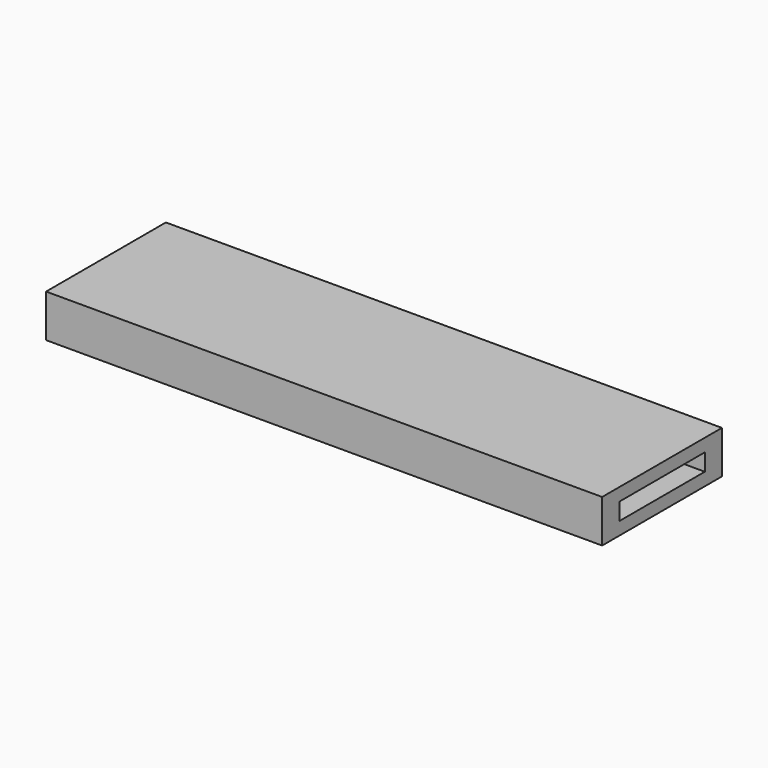
from build123d import *

# Parameters (mm, degrees)
F0_W     = 130
F0_H     = 5
F0_H_2   = 25
F1_DEPTH = 3
F2_W     = 130
F2_H     = 5
F3_DEPTH = 7
F4_W     = 130
F4_H     = 5
F5_DEPTH = 4
F6_W     = 130
F6_H     = 3
F7_DEPTH = 30


with BuildPart() as f1:
    # F0 (on Top) → F1 (new body)
    with BuildSketch(Plane.XY):
        with Locations((0, 15)):
            Rectangle(F0_W, F0_H)
        Rectangle(F0_W, F0_H_2)
        with Locations((0, -15)):
            Rectangle(F0_W, F0_H)
    extrude(amount=F1_DEPTH)

    # F2 (on face) → F3 (join)
    with BuildSketch(Plane.XY.offset(3)):
        with Locations((0, 15)):
            Rectangle(F2_W, F2_H)
    extrude(amount=F3_DEPTH)

    # F4 (on face) → F5 (join)
    with BuildSketch(Plane.XY.offset(3)):
        with Locations((0, -15)):
            Rectangle(F4_W, F4_H)
    extrude(amount=F5_DEPTH)

    # F6 (on face) → F7 (join)
    with BuildSketch(Plane.XZ.offset(-12.5)):
        with Locations((0, 8.5)):
            Rectangle(F6_W, F6_H)
    extrude(amount=F7_DEPTH)


solid = f1.part
